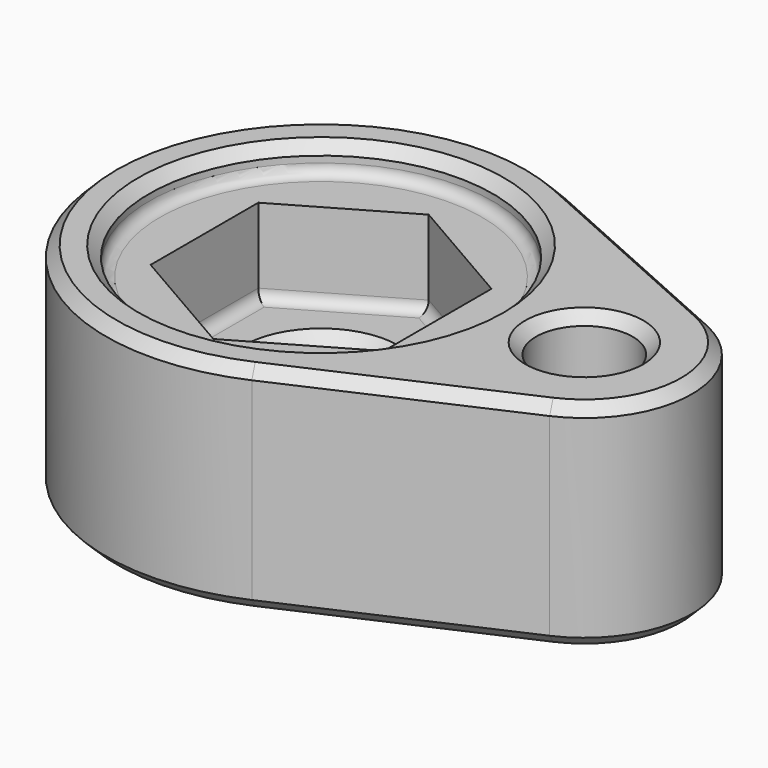
from build123d import *

# Parameters (mm, degrees)
F0_R     = 2.25
F1_DEPTH = 10
F2_R     = 8
F3_DEPTH = 1.3
F5_DEPTH = 4
F6_R     = 3.125
F7_DEPTH = 4.701
F8_R     = 0.5
F9_SIZE  = 0.5


with BuildPart() as f1:
    # F0 (on Top) → F1 (new body)
    with BuildSketch(Plane.XY):
        with BuildLine():
            Line((14.290816, 4.564545), (4.081633, 9.129089))
            ThreePointArc((4.081633, 9.129089), (-10, 0), (4.081633, -9.129089))
            Line((4.081633, -9.129089), (14.290816, -4.564545))
            ThreePointArc((14.290816, -4.564545), (17.25, 0), (14.290816, 4.564545))
        make_face()
        with Locations((12.25, 0)):
            Circle(F0_R, mode=Mode.SUBTRACT)
    extrude(amount=F1_DEPTH)

    # F2 (on face) → F3 (cut)
    with BuildSketch(Plane.XY.offset(10)):
        Circle(F2_R)
    extrude(amount=-F3_DEPTH, mode=Mode.SUBTRACT)

    # F4 (on face) → F5 (cut)
    with BuildSketch(Plane.XY.offset(8.7)):
        Polygon((5.425, -3.132125), (5.425, 3.132125), (0, 6.26425), (-5.425, 3.132125), (-5.425, -3.132125), (0, -6.26425), align=None)
    extrude(amount=-F5_DEPTH, mode=Mode.SUBTRACT)

    # F6 (on face) → F7 (cut, through all)
    with BuildSketch(Plane.XY.offset(4.7)):
        Circle(F6_R)
    extrude(amount=-F7_DEPTH, mode=Mode.SUBTRACT)

    # F8
    f8_edges = [f1.edges().sort_by_distance(p)[0] for p in [
        (-8, 0, 8.7),
        (-2.7125, 4.698188, 4.7),
        (2.7125, 4.698188, 4.7),
        (-5.425, 0, 4.7),
        (-2.7125, -4.698188, 4.7),
        (2.7125, -4.698188, 4.7),
        (5.425, 0, 4.7),
    ]]
    fillet(f8_edges, radius=F8_R)

    # F9
    f9_edges = [f1.edges().sort_by_distance(p)[0] for p in [
        (-8, 0, 10),
        (10, 0, 10),
        (-10, 0, 10),
        (9.186224, -6.846817, 10),
        (-10, 0, 0),
        (9.186224, 6.846817, 0),
        (-3.125, 0, 0),
        (10, 0, 0),
        (-3.125, 0, 4.7),
    ]]
    chamfer(f9_edges, length=F9_SIZE)


solid = f1.part
